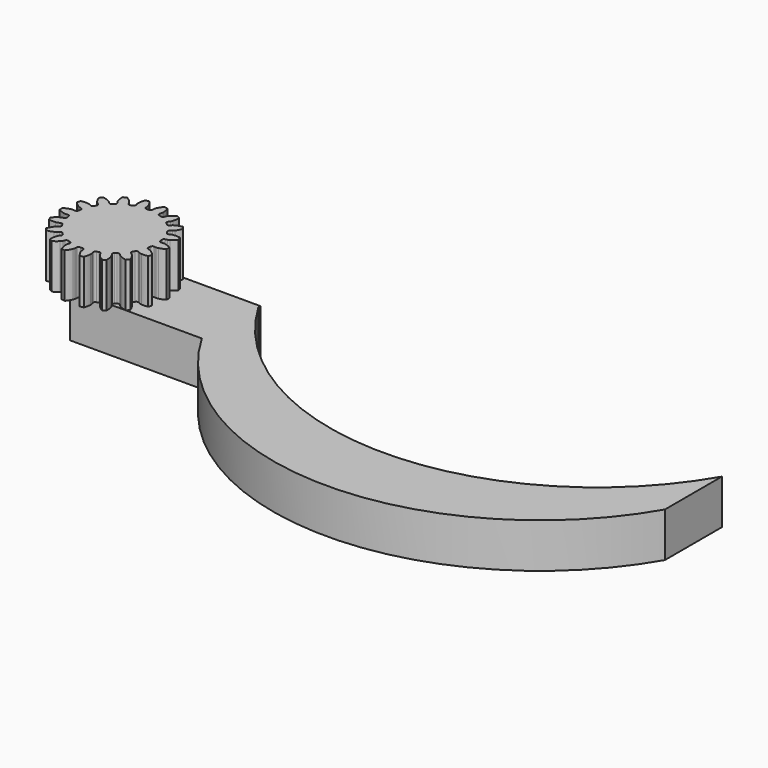
from build123d import *

# Parameters (mm, degrees)
PAD001_DEPTH  = 5
EXTRUDE_DEPTH = 5
SKETCH_W      = 15
SKETCH_H      = 8
PAD_DEPTH     = 5


with BuildPart() as body001:
    # Sketch001 → Pad001 (new body)
    with BuildSketch(Plane.XY):
        with BuildLine():
            ThreePointArc((15, 4), (40.980762, -11), (66.961524, 4))
            Line((66.961524, 4), (66.961524, -4))
            ThreePointArc((15, -4), (40.980762, -19), (66.961524, -4))
            Line((15, -4), (15, 4))
        make_face()
    extrude(amount=PAD001_DEPTH)


with BuildPart() as body001_1:
    # Body001 placement: moved
    add(body001.part.moved(Location((-2, 0, 0))))


with BuildPart() as zahnrad:
    # InvoluteGear → Extrude (new body)
    with BuildSketch(Plane.XY.offset(5)):
        with BuildLine():
            Line((4.844409, -0.496687), (5.058304, -0.518161))
            add(Edge.make_bspline(
                [(5.058304, -0.518161), (5.085721, -0.519213), (5.168207, -0.518908), (5.305975, -0.48873)],
                knots=[0, 0, 0, 0, 1, 1, 1, 1], degree=3))
            add(Edge.make_bspline(
                [(5.305975, -0.48873), (5.470643, -0.452048), (5.70718, -0.373022), (5.997205, -0.204195)],
                knots=[0, 0, 0, 0, 1, 1, 1, 1], degree=3))
            ThreePointArc((5.997205, -0.204195), (6.00068, 0), (5.997205, 0.204195))
            add(Edge.make_bspline(
                [(5.997205, 0.204195), (5.70718, 0.373022), (5.470643, 0.452048), (5.305975, 0.48873)],
                knots=[0, 0, 0, 0, 1, 1, 1, 1], degree=3))
            add(Edge.make_bspline(
                [(5.305975, 0.48873), (5.168207, 0.518908), (5.085721, 0.519213), (5.058304, 0.518161)],
                knots=[0, 0, 0, 0, 1, 1, 1, 1], degree=3))
            Line((5.058304, 0.518161), (4.844409, 0.496687))
            ThreePointArc((4.844409, 0.496687), (4.683575, 0.542715), (4.598966, 0.687033))
            ThreePointArc((4.598966, 0.687033), (4.579356, 0.807464), (4.556593, 0.927339))
            ThreePointArc((4.556593, 0.927339), (4.58674, 1.091892), (4.722133, 1.190153))
            Line((4.722133, 1.190153), (4.930473, 1.24313))
            add(Edge.make_bspline(
                [(4.930473, 1.24313), (4.956596, 1.251518), (5.034003, 1.280017), (5.153141, 1.355495)],
                knots=[0, 0, 0, 0, 1, 1, 1, 1], degree=3))
            add(Edge.make_bspline(
                [(5.153141, 1.355495), (5.295332, 1.446284), (5.490576, 1.601444), (5.705368, 1.859284)],
                knots=[0, 0, 0, 0, 1, 1, 1, 1], degree=3))
            ThreePointArc((5.705368, 1.859284), (5.638795, 2.052354), (5.56569, 2.243046))
            add(Edge.make_bspline(
                [(5.56569, 2.243046), (5.235414, 2.302497), (4.986114, 2.295856), (4.81883, 2.274006)],
                knots=[0, 0, 0, 0, 1, 1, 1, 1], degree=3))
            add(Edge.make_bspline(
                [(4.81883, 2.274006), (4.679049, 2.255245), (4.601433, 2.22732), (4.57603, 2.216954)],
                knots=[0, 0, 0, 0, 1, 1, 1, 1], degree=3))
            Line((4.57603, 2.216954), (4.382379, 2.123619))
            ThreePointArc((4.382379, 2.123619), (4.215501, 2.111862), (4.086635, 2.218539))
            ThreePointArc((4.086635, 2.218539), (4.027018, 2.325), (3.964628, 2.42986))
            ThreePointArc((3.964628, 2.42986), (3.936677, 2.5948), (4.030297, 2.733442))
            Line((4.030297, 2.733442), (4.207953, 2.854481))
            add(Edge.make_bspline(
                [(4.207953, 2.854481), (4.229632, 2.871298), (4.292624, 2.924553), (4.378762, 3.036226)],
                knots=[0, 0, 0, 0, 1, 1, 1, 1], degree=3))
            add(Edge.make_bspline(
                [(4.378762, 3.036226), (4.481326, 3.170173), (4.611728, 3.382753), (4.72538, 3.698506)],
                knots=[0, 0, 0, 0, 1, 1, 1, 1], degree=3))
            ThreePointArc((4.72538, 3.698506), (4.596788, 3.857163), (4.462871, 4.011352))
            add(Edge.make_bspline(
                [(4.462871, 4.011352), (4.13218, 3.954256), (3.900185, 3.86275), (3.750463, 3.785004)],
                knots=[0, 0, 0, 0, 1, 1, 1, 1], degree=3))
            add(Edge.make_bspline(
                [(3.750463, 3.785004), (3.625529, 3.719566), (3.562144, 3.666779), (3.541818, 3.64835)],
                knots=[0, 0, 0, 0, 1, 1, 1, 1], degree=3))
            Line((3.541818, 3.64835), (3.391769, 3.494411))
            ThreePointArc((3.391769, 3.494411), (3.238976, 3.426287), (3.081396, 3.482456))
            ThreePointArc((3.081396, 3.482456), (2.988962, 3.562107), (2.894471, 3.639305))
            ThreePointArc((2.894471, 3.639305), (2.811792, 3.784737), (2.852348, 3.947038))
            Line((2.852348, 3.947038), (2.977893, 4.121539))
            add(Edge.make_bspline(
                [(2.977893, 4.121539), (2.992512, 4.144757), (3.033491, 4.216345), (3.07624, 4.350744)],
                knots=[0, 0, 0, 0, 1, 1, 1, 1], degree=3))
            add(Edge.make_bspline(
                [(3.07624, 4.350744), (3.126806, 4.511692), (3.176637, 4.756052), (3.175441, 5.091634)],
                knots=[0, 0, 0, 0, 1, 1, 1, 1], degree=3))
            ThreePointArc((3.175441, 5.091634), (3.00034, 5.196742), (2.821764, 5.295829))
            add(Edge.make_bspline(
                [(2.821764, 5.295829), (2.530543, 5.129074), (2.343837, 4.96374), (2.229735, 4.839474)],
                knots=[0, 0, 0, 0, 1, 1, 1, 1], degree=3))
            add(Edge.make_bspline(
                [(2.229735, 4.839474), (2.134716, 4.735253), (2.093209, 4.66397), (2.080412, 4.6397)],
                knots=[0, 0, 0, 0, 1, 1, 1, 1], degree=3))
            Line((2.080412, 4.6397), (1.992061, 4.443725))
            ThreePointArc((1.992061, 4.443725), (1.871782, 4.327452), (1.704495, 4.326338))
            ThreePointArc((1.704495, 4.326338), (1.590394, 4.369571), (1.475198, 4.409795))
            ThreePointArc((1.475198, 4.409795), (1.347764, 4.518179), (1.330364, 4.684563))
            Line((1.330364, 4.684563), (1.388654, 4.89148))
            add(Edge.make_bspline(
                [(1.388654, 4.89148), (1.394451, 4.918297), (1.408474, 4.999583), (1.402678, 5.140498)],
                knots=[0, 0, 0, 0, 1, 1, 1, 1], degree=3))
            add(Edge.make_bspline(
                [(1.402678, 5.140498), (1.395147, 5.309034), (1.358396, 5.555701), (1.242497, 5.870636)],
                knots=[0, 0, 0, 0, 1, 1, 1, 1], degree=3))
            ThreePointArc((1.242497, 5.870636), (1.042007, 5.909517), (0.840311, 5.941552))
            add(Edge.make_bspline(
                [(0.840311, 5.941552), (0.623686, 5.68525), (0.504787, 5.466029), (0.440068, 5.310232)],
                knots=[0, 0, 0, 0, 1, 1, 1, 1], degree=3))
            add(Edge.make_bspline(
                [(0.440068, 5.310232), (0.386425, 5.179798), (0.371801, 5.098618), (0.368076, 5.071435)],
                knots=[0, 0, 0, 0, 1, 1, 1, 1], degree=3))
            Line((0.368076, 5.071435), (0.352082, 4.857061))
            ThreePointArc((0.352082, 4.857061), (0.278824, 4.706662), (0.122006, 4.648399))
            ThreePointArc((0.122006, 4.648399), (0, 4.65), (-0.122006, 4.648399))
            ThreePointArc((-0.122006, 4.648399), (-0.278824, 4.706662), (-0.352082, 4.857061))
            Line((-0.352082, 4.857061), (-0.368076, 5.071435))
            add(Edge.make_bspline(
                [(-0.368076, 5.071435), (-0.371801, 5.098618), (-0.386425, 5.179798), (-0.440068, 5.310232)],
                knots=[0, 0, 0, 0, 1, 1, 1, 1], degree=3))
            add(Edge.make_bspline(
                [(-0.440068, 5.310232), (-0.504787, 5.466029), (-0.623686, 5.68525), (-0.840311, 5.941552)],
                knots=[0, 0, 0, 0, 1, 1, 1, 1], degree=3))
            ThreePointArc((-0.840311, 5.941552), (-1.042007, 5.909517), (-1.242497, 5.870636))
            add(Edge.make_bspline(
                [(-1.242497, 5.870636), (-1.358396, 5.555701), (-1.395147, 5.309034), (-1.402678, 5.140498)],
                knots=[0, 0, 0, 0, 1, 1, 1, 1], degree=3))
            add(Edge.make_bspline(
                [(-1.402678, 5.140498), (-1.408474, 4.999583), (-1.394451, 4.918297), (-1.388654, 4.89148)],
                knots=[0, 0, 0, 0, 1, 1, 1, 1], degree=3))
            Line((-1.388654, 4.89148), (-1.330364, 4.684563))
            ThreePointArc((-1.330364, 4.684563), (-1.347764, 4.518179), (-1.475198, 4.409795))
            ThreePointArc((-1.475198, 4.409795), (-1.590394, 4.369571), (-1.704495, 4.326338))
            ThreePointArc((-1.704495, 4.326338), (-1.871782, 4.327452), (-1.992061, 4.443725))
            Line((-1.992061, 4.443725), (-2.080412, 4.6397))
            add(Edge.make_bspline(
                [(-2.080412, 4.6397), (-2.093209, 4.66397), (-2.134716, 4.735253), (-2.229735, 4.839474)],
                knots=[0, 0, 0, 0, 1, 1, 1, 1], degree=3))
            add(Edge.make_bspline(
                [(-2.229735, 4.839474), (-2.343837, 4.96374), (-2.530543, 5.129074), (-2.821764, 5.295829)],
                knots=[0, 0, 0, 0, 1, 1, 1, 1], degree=3))
            ThreePointArc((-2.821764, 5.295829), (-3.00034, 5.196742), (-3.175441, 5.091634))
            add(Edge.make_bspline(
                [(-3.175441, 5.091634), (-3.176637, 4.756052), (-3.126806, 4.511692), (-3.07624, 4.350744)],
                knots=[0, 0, 0, 0, 1, 1, 1, 1], degree=3))
            add(Edge.make_bspline(
                [(-3.07624, 4.350744), (-3.033491, 4.216345), (-2.992512, 4.144757), (-2.977893, 4.121539)],
                knots=[0, 0, 0, 0, 1, 1, 1, 1], degree=3))
            Line((-2.977893, 4.121539), (-2.852348, 3.947038))
            ThreePointArc((-2.852348, 3.947038), (-2.811792, 3.784737), (-2.894471, 3.639305))
            ThreePointArc((-2.894471, 3.639305), (-2.988962, 3.562107), (-3.081396, 3.482456))
            ThreePointArc((-3.081396, 3.482456), (-3.238976, 3.426287), (-3.391769, 3.494411))
            Line((-3.391769, 3.494411), (-3.541818, 3.64835))
            add(Edge.make_bspline(
                [(-3.541818, 3.64835), (-3.562144, 3.666779), (-3.625529, 3.719566), (-3.750463, 3.785004)],
                knots=[0, 0, 0, 0, 1, 1, 1, 1], degree=3))
            add(Edge.make_bspline(
                [(-3.750463, 3.785004), (-3.900185, 3.86275), (-4.13218, 3.954256), (-4.462871, 4.011352)],
                knots=[0, 0, 0, 0, 1, 1, 1, 1], degree=3))
            ThreePointArc((-4.462871, 4.011352), (-4.596788, 3.857163), (-4.72538, 3.698506))
            add(Edge.make_bspline(
                [(-4.72538, 3.698506), (-4.611728, 3.382753), (-4.481326, 3.170173), (-4.378762, 3.036226)],
                knots=[0, 0, 0, 0, 1, 1, 1, 1], degree=3))
            add(Edge.make_bspline(
                [(-4.378762, 3.036226), (-4.292624, 2.924553), (-4.229632, 2.871298), (-4.207953, 2.854481)],
                knots=[0, 0, 0, 0, 1, 1, 1, 1], degree=3))
            Line((-4.207953, 2.854481), (-4.030297, 2.733442))
            ThreePointArc((-4.030297, 2.733442), (-3.936677, 2.5948), (-3.964628, 2.42986))
            ThreePointArc((-3.964628, 2.42986), (-4.027018, 2.325), (-4.086635, 2.218539))
            ThreePointArc((-4.086635, 2.218539), (-4.215501, 2.111862), (-4.382379, 2.123619))
            Line((-4.382379, 2.123619), (-4.57603, 2.216954))
            add(Edge.make_bspline(
                [(-4.57603, 2.216954), (-4.601433, 2.22732), (-4.679049, 2.255245), (-4.81883, 2.274006)],
                knots=[0, 0, 0, 0, 1, 1, 1, 1], degree=3))
            add(Edge.make_bspline(
                [(-4.81883, 2.274006), (-4.986114, 2.295856), (-5.235414, 2.302497), (-5.56569, 2.243046)],
                knots=[0, 0, 0, 0, 1, 1, 1, 1], degree=3))
            ThreePointArc((-5.56569, 2.243046), (-5.638795, 2.052354), (-5.705368, 1.859284))
            add(Edge.make_bspline(
                [(-5.705368, 1.859284), (-5.490576, 1.601444), (-5.295332, 1.446284), (-5.153141, 1.355495)],
                knots=[0, 0, 0, 0, 1, 1, 1, 1], degree=3))
            add(Edge.make_bspline(
                [(-5.153141, 1.355495), (-5.034003, 1.280017), (-4.956596, 1.251518), (-4.930473, 1.24313)],
                knots=[0, 0, 0, 0, 1, 1, 1, 1], degree=3))
            Line((-4.930473, 1.24313), (-4.722133, 1.190153))
            ThreePointArc((-4.722133, 1.190153), (-4.58674, 1.091892), (-4.556593, 0.927339))
            ThreePointArc((-4.556593, 0.927339), (-4.579356, 0.807464), (-4.598966, 0.687033))
            ThreePointArc((-4.598966, 0.687033), (-4.683575, 0.542715), (-4.844409, 0.496687))
            Line((-4.844409, 0.496687), (-5.058304, 0.518161))
            add(Edge.make_bspline(
                [(-5.058304, 0.518161), (-5.085721, 0.519213), (-5.168207, 0.518908), (-5.305975, 0.48873)],
                knots=[0, 0, 0, 0, 1, 1, 1, 1], degree=3))
            add(Edge.make_bspline(
                [(-5.305975, 0.48873), (-5.470643, 0.452048), (-5.70718, 0.373022), (-5.997205, 0.204195)],
                knots=[0, 0, 0, 0, 1, 1, 1, 1], degree=3))
            ThreePointArc((-5.997205, 0.204195), (-6.00068, 0), (-5.997205, -0.204195))
            add(Edge.make_bspline(
                [(-5.997205, -0.204195), (-5.70718, -0.373022), (-5.470643, -0.452048), (-5.305975, -0.48873)],
                knots=[0, 0, 0, 0, 1, 1, 1, 1], degree=3))
            add(Edge.make_bspline(
                [(-5.305975, -0.48873), (-5.168207, -0.518908), (-5.085721, -0.519213), (-5.058304, -0.518161)],
                knots=[0, 0, 0, 0, 1, 1, 1, 1], degree=3))
            Line((-5.058304, -0.518161), (-4.844409, -0.496687))
            ThreePointArc((-4.844409, -0.496687), (-4.683575, -0.542715), (-4.598966, -0.687033))
            ThreePointArc((-4.598966, -0.687033), (-4.579356, -0.807464), (-4.556593, -0.927339))
            ThreePointArc((-4.556593, -0.927339), (-4.58674, -1.091892), (-4.722133, -1.190153))
            Line((-4.722133, -1.190153), (-4.930473, -1.24313))
            add(Edge.make_bspline(
                [(-4.930473, -1.24313), (-4.956596, -1.251518), (-5.034003, -1.280017), (-5.153141, -1.355495)],
                knots=[0, 0, 0, 0, 1, 1, 1, 1], degree=3))
            add(Edge.make_bspline(
                [(-5.153141, -1.355495), (-5.295332, -1.446284), (-5.490576, -1.601444), (-5.705368, -1.859284)],
                knots=[0, 0, 0, 0, 1, 1, 1, 1], degree=3))
            ThreePointArc((-5.705368, -1.859284), (-5.638795, -2.052354), (-5.56569, -2.243046))
            add(Edge.make_bspline(
                [(-5.56569, -2.243046), (-5.235414, -2.302497), (-4.986114, -2.295856), (-4.81883, -2.274006)],
                knots=[0, 0, 0, 0, 1, 1, 1, 1], degree=3))
            add(Edge.make_bspline(
                [(-4.81883, -2.274006), (-4.679049, -2.255245), (-4.601433, -2.22732), (-4.57603, -2.216954)],
                knots=[0, 0, 0, 0, 1, 1, 1, 1], degree=3))
            Line((-4.57603, -2.216954), (-4.382379, -2.123619))
            ThreePointArc((-4.382379, -2.123619), (-4.215501, -2.111862), (-4.086635, -2.218539))
            ThreePointArc((-4.086635, -2.218539), (-4.027018, -2.325), (-3.964628, -2.42986))
            ThreePointArc((-3.964628, -2.42986), (-3.936677, -2.5948), (-4.030297, -2.733442))
            Line((-4.030297, -2.733442), (-4.207953, -2.854481))
            add(Edge.make_bspline(
                [(-4.207953, -2.854481), (-4.229632, -2.871298), (-4.292624, -2.924553), (-4.378762, -3.036226)],
                knots=[0, 0, 0, 0, 1, 1, 1, 1], degree=3))
            add(Edge.make_bspline(
                [(-4.378762, -3.036226), (-4.481326, -3.170173), (-4.611728, -3.382753), (-4.72538, -3.698506)],
                knots=[0, 0, 0, 0, 1, 1, 1, 1], degree=3))
            ThreePointArc((-4.72538, -3.698506), (-4.596788, -3.857163), (-4.462871, -4.011352))
            add(Edge.make_bspline(
                [(-4.462871, -4.011352), (-4.13218, -3.954256), (-3.900185, -3.86275), (-3.750463, -3.785004)],
                knots=[0, 0, 0, 0, 1, 1, 1, 1], degree=3))
            add(Edge.make_bspline(
                [(-3.750463, -3.785004), (-3.625529, -3.719566), (-3.562144, -3.666779), (-3.541818, -3.64835)],
                knots=[0, 0, 0, 0, 1, 1, 1, 1], degree=3))
            Line((-3.541818, -3.64835), (-3.391769, -3.494411))
            ThreePointArc((-3.391769, -3.494411), (-3.238976, -3.426287), (-3.081396, -3.482456))
            ThreePointArc((-3.081396, -3.482456), (-2.988962, -3.562107), (-2.894471, -3.639305))
            ThreePointArc((-2.894471, -3.639305), (-2.811792, -3.784737), (-2.852348, -3.947038))
            Line((-2.852348, -3.947038), (-2.977893, -4.121539))
            add(Edge.make_bspline(
                [(-2.977893, -4.121539), (-2.992512, -4.144757), (-3.033491, -4.216345), (-3.07624, -4.350744)],
                knots=[0, 0, 0, 0, 1, 1, 1, 1], degree=3))
            add(Edge.make_bspline(
                [(-3.07624, -4.350744), (-3.126806, -4.511692), (-3.176637, -4.756052), (-3.175441, -5.091634)],
                knots=[0, 0, 0, 0, 1, 1, 1, 1], degree=3))
            ThreePointArc((-3.175441, -5.091634), (-3.00034, -5.196742), (-2.821764, -5.295829))
            add(Edge.make_bspline(
                [(-2.821764, -5.295829), (-2.530543, -5.129074), (-2.343837, -4.96374), (-2.229735, -4.839474)],
                knots=[0, 0, 0, 0, 1, 1, 1, 1], degree=3))
            add(Edge.make_bspline(
                [(-2.229735, -4.839474), (-2.134716, -4.735253), (-2.093209, -4.66397), (-2.080412, -4.6397)],
                knots=[0, 0, 0, 0, 1, 1, 1, 1], degree=3))
            Line((-2.080412, -4.6397), (-1.992061, -4.443725))
            ThreePointArc((-1.992061, -4.443725), (-1.871782, -4.327452), (-1.704495, -4.326338))
            ThreePointArc((-1.704495, -4.326338), (-1.590394, -4.369571), (-1.475198, -4.409795))
            ThreePointArc((-1.475198, -4.409795), (-1.347764, -4.518179), (-1.330364, -4.684563))
            Line((-1.330364, -4.684563), (-1.388654, -4.89148))
            add(Edge.make_bspline(
                [(-1.388654, -4.89148), (-1.394451, -4.918297), (-1.408474, -4.999583), (-1.402678, -5.140498)],
                knots=[0, 0, 0, 0, 1, 1, 1, 1], degree=3))
            add(Edge.make_bspline(
                [(-1.402678, -5.140498), (-1.395147, -5.309034), (-1.358396, -5.555701), (-1.242497, -5.870636)],
                knots=[0, 0, 0, 0, 1, 1, 1, 1], degree=3))
            ThreePointArc((-1.242497, -5.870636), (-1.042007, -5.909517), (-0.840311, -5.941552))
            add(Edge.make_bspline(
                [(-0.840311, -5.941552), (-0.623686, -5.68525), (-0.504787, -5.466029), (-0.440068, -5.310232)],
                knots=[0, 0, 0, 0, 1, 1, 1, 1], degree=3))
            add(Edge.make_bspline(
                [(-0.440068, -5.310232), (-0.386425, -5.179798), (-0.371801, -5.098618), (-0.368076, -5.071435)],
                knots=[0, 0, 0, 0, 1, 1, 1, 1], degree=3))
            Line((-0.368076, -5.071435), (-0.352082, -4.857061))
            ThreePointArc((-0.352082, -4.857061), (-0.278824, -4.706662), (-0.122006, -4.648399))
            ThreePointArc((-0.122006, -4.648399), (0, -4.65), (0.122006, -4.648399))
            ThreePointArc((0.122006, -4.648399), (0.278824, -4.706662), (0.352082, -4.857061))
            Line((0.352082, -4.857061), (0.368076, -5.071435))
            add(Edge.make_bspline(
                [(0.368076, -5.071435), (0.371801, -5.098618), (0.386425, -5.179798), (0.440068, -5.310232)],
                knots=[0, 0, 0, 0, 1, 1, 1, 1], degree=3))
            add(Edge.make_bspline(
                [(0.440068, -5.310232), (0.504787, -5.466029), (0.623686, -5.68525), (0.840311, -5.941552)],
                knots=[0, 0, 0, 0, 1, 1, 1, 1], degree=3))
            ThreePointArc((0.840311, -5.941552), (1.042007, -5.909517), (1.242497, -5.870636))
            add(Edge.make_bspline(
                [(1.242497, -5.870636), (1.358396, -5.555701), (1.395147, -5.309034), (1.402678, -5.140498)],
                knots=[0, 0, 0, 0, 1, 1, 1, 1], degree=3))
            add(Edge.make_bspline(
                [(1.402678, -5.140498), (1.408474, -4.999583), (1.394451, -4.918297), (1.388654, -4.89148)],
                knots=[0, 0, 0, 0, 1, 1, 1, 1], degree=3))
            Line((1.388654, -4.89148), (1.330364, -4.684563))
            ThreePointArc((1.330364, -4.684563), (1.347764, -4.518179), (1.475198, -4.409795))
            ThreePointArc((1.475198, -4.409795), (1.590394, -4.369571), (1.704495, -4.326338))
            ThreePointArc((1.704495, -4.326338), (1.871782, -4.327452), (1.992061, -4.443725))
            Line((1.992061, -4.443725), (2.080412, -4.6397))
            add(Edge.make_bspline(
                [(2.080412, -4.6397), (2.093209, -4.66397), (2.134716, -4.735253), (2.229735, -4.839474)],
                knots=[0, 0, 0, 0, 1, 1, 1, 1], degree=3))
            add(Edge.make_bspline(
                [(2.229735, -4.839474), (2.343837, -4.96374), (2.530543, -5.129074), (2.821764, -5.295829)],
                knots=[0, 0, 0, 0, 1, 1, 1, 1], degree=3))
            ThreePointArc((2.821764, -5.295829), (3.00034, -5.196742), (3.175441, -5.091634))
            add(Edge.make_bspline(
                [(3.175441, -5.091634), (3.176637, -4.756052), (3.126806, -4.511692), (3.07624, -4.350744)],
                knots=[0, 0, 0, 0, 1, 1, 1, 1], degree=3))
            add(Edge.make_bspline(
                [(3.07624, -4.350744), (3.033491, -4.216345), (2.992512, -4.144757), (2.977893, -4.121539)],
                knots=[0, 0, 0, 0, 1, 1, 1, 1], degree=3))
            Line((2.977893, -4.121539), (2.852348, -3.947038))
            ThreePointArc((2.852348, -3.947038), (2.811792, -3.784737), (2.894471, -3.639305))
            ThreePointArc((2.894471, -3.639305), (2.988962, -3.562107), (3.081396, -3.482456))
            ThreePointArc((3.081396, -3.482456), (3.238976, -3.426287), (3.391769, -3.494411))
            Line((3.391769, -3.494411), (3.541818, -3.64835))
            add(Edge.make_bspline(
                [(3.541818, -3.64835), (3.562144, -3.666779), (3.625529, -3.719566), (3.750463, -3.785004)],
                knots=[0, 0, 0, 0, 1, 1, 1, 1], degree=3))
            add(Edge.make_bspline(
                [(3.750463, -3.785004), (3.900185, -3.86275), (4.13218, -3.954256), (4.462871, -4.011352)],
                knots=[0, 0, 0, 0, 1, 1, 1, 1], degree=3))
            ThreePointArc((4.462871, -4.011352), (4.596788, -3.857163), (4.72538, -3.698506))
            add(Edge.make_bspline(
                [(4.72538, -3.698506), (4.611728, -3.382753), (4.481326, -3.170173), (4.378762, -3.036226)],
                knots=[0, 0, 0, 0, 1, 1, 1, 1], degree=3))
            add(Edge.make_bspline(
                [(4.378762, -3.036226), (4.292624, -2.924553), (4.229632, -2.871298), (4.207953, -2.854481)],
                knots=[0, 0, 0, 0, 1, 1, 1, 1], degree=3))
            Line((4.207953, -2.854481), (4.030297, -2.733442))
            ThreePointArc((4.030297, -2.733442), (3.936677, -2.5948), (3.964628, -2.42986))
            ThreePointArc((3.964628, -2.42986), (4.027018, -2.325), (4.086635, -2.218539))
            ThreePointArc((4.086635, -2.218539), (4.215501, -2.111862), (4.382379, -2.123619))
            Line((4.382379, -2.123619), (4.57603, -2.216954))
            add(Edge.make_bspline(
                [(4.57603, -2.216954), (4.601433, -2.22732), (4.679049, -2.255245), (4.81883, -2.274006)],
                knots=[0, 0, 0, 0, 1, 1, 1, 1], degree=3))
            add(Edge.make_bspline(
                [(4.81883, -2.274006), (4.986114, -2.295856), (5.235414, -2.302497), (5.56569, -2.243046)],
                knots=[0, 0, 0, 0, 1, 1, 1, 1], degree=3))
            ThreePointArc((5.56569, -2.243046), (5.638795, -2.052354), (5.705368, -1.859284))
            add(Edge.make_bspline(
                [(5.705368, -1.859284), (5.490576, -1.601444), (5.295332, -1.446284), (5.153141, -1.355495)],
                knots=[0, 0, 0, 0, 1, 1, 1, 1], degree=3))
            add(Edge.make_bspline(
                [(5.153141, -1.355495), (5.034003, -1.280017), (4.956596, -1.251518), (4.930473, -1.24313)],
                knots=[0, 0, 0, 0, 1, 1, 1, 1], degree=3))
            Line((4.930473, -1.24313), (4.722133, -1.190153))
            ThreePointArc((4.722133, -1.190153), (4.58674, -1.091892), (4.556593, -0.927339))
            ThreePointArc((4.556593, -0.927339), (4.579356, -0.807464), (4.598966, -0.687033))
            ThreePointArc((4.598966, -0.687033), (4.683575, -0.542715), (4.844409, -0.496687))
        make_face()
    extrude(amount=EXTRUDE_DEPTH)


with BuildPart() as fusion001:
    # Sketch → Pad (new body)
    with BuildSketch(Plane.XY):
        with Locations((5.7, 0)):
            Rectangle(SKETCH_W, SKETCH_H)
    extrude(amount=PAD_DEPTH)

    # Fusion: union Zahnrad
    add(zahnrad.part)

    # Fusion001: union Body001
    add(body001_1.part)


solid = fusion001.part
